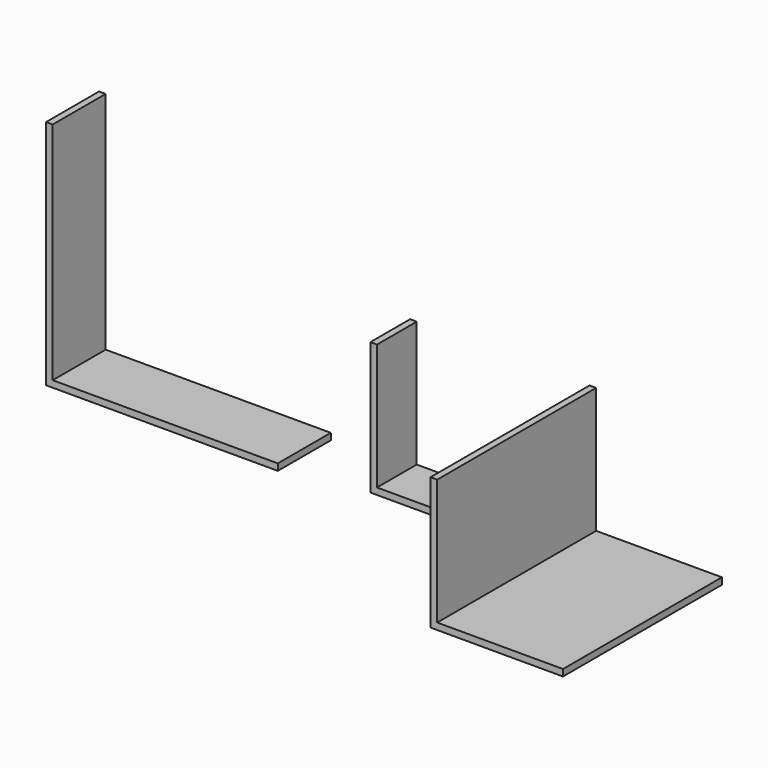
from build123d import *

# Parameters (mm, degrees)
F1_DEPTH = 20
F2_DEPTH = 15
F3_DEPTH = 60


with BuildPart() as f1:
    # F0 (on Front) → F1 (new body)
    with BuildSketch(Plane.XZ):
        Polygon((-59.82465, 70), (-61.82465, 70), (-61.82465, 2), (-61.82465, 0), (-59.82465, 0), (8.17535, 0), (8.17535, 2), (-59.82465, 2), align=None)
    extrude(amount=F1_DEPTH)


with BuildPart() as f2:
    # F0 (on Front) → F2 (new body)
    with BuildSketch(Plane.XZ):
        Polygon((34.12422, 40), (32.12422, 40), (32.12422, 2), (32.12422, 0), (34.12422, 0), (72.12422, 0), (72.12422, 2), (34.12422, 2), align=None)
    extrude(amount=F2_DEPTH)


with BuildPart() as f3:
    # F0 (on Front) → F3 (new body)
    with BuildSketch(Plane.XZ):
        Polygon((88.3113, 40), (86.3113, 40), (86.3113, 2), (86.3113, 0), (88.3113, 0), (126.3113, 0), (126.3113, 2), (88.3113, 2), align=None)
    extrude(amount=F3_DEPTH)


solid = Compound([f1.part, f2.part, f3.part])
